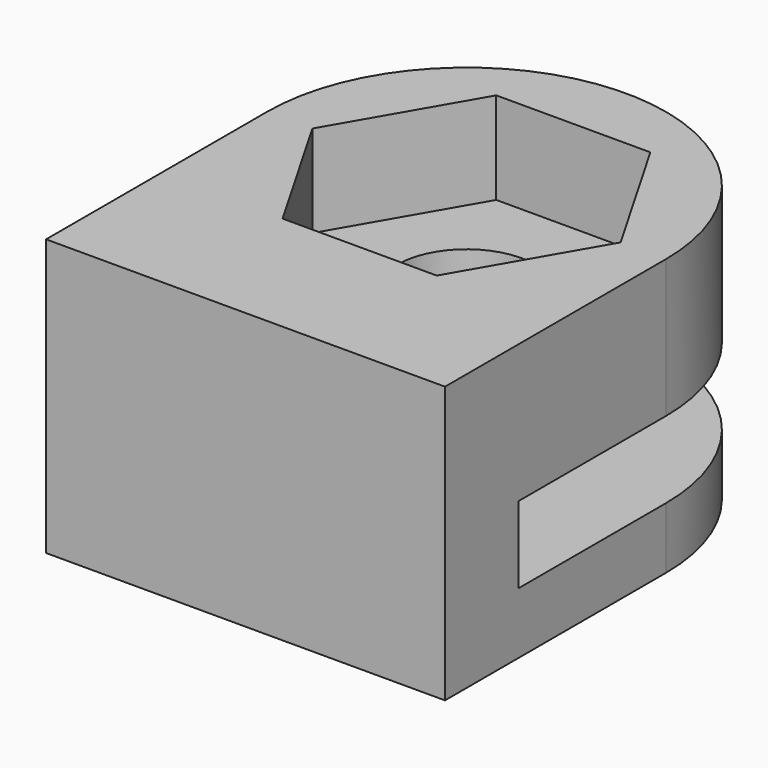
from build123d import *

# Parameters (mm, degrees)
F1_DEPTH = 9
F3_DEPTH = 3
F4_R     = 2.25
F5_DEPTH = 25.4
F6_W     = 16.774124
F6_H     = 2.5
F6_W_2   = 6
F7_DEPTH = 25


with BuildPart() as f1:
    # F0 (on Top) → F1 (new body)
    with BuildSketch(Plane.XY):
        with BuildLine():
            ThreePointArc((13, 0), (6.5, 6.5), (0, 0))
            Line((0, 0), (0, -9))
            Line((0, -9), (13, -9))
            Line((13, -9), (13, 0))
        make_face()
    extrude(amount=F1_DEPTH)

    # F2 (on face) → F3 (cut)
    with BuildSketch(Plane.XY.offset(9)):
        Polygon((11.522947, -0.00093), (9.012279, 4.349535), (3.989331, 4.350465), (1.477053, 0.00093), (3.987721, -4.349535), (9.010669, -4.350465), align=None)
    extrude(amount=-F3_DEPTH, mode=Mode.SUBTRACT)

    # F4 (on face) → F5 (cut)
    with BuildSketch(Plane.XY.offset(9)):
        with Locations((6.5, 0)):
            Circle(F4_R)
    extrude(amount=-F5_DEPTH, mode=Mode.SUBTRACT)

    # F6 (on face) → F7 (cut)
    with BuildSketch(Plane(origin=(0, 0, 0), x_dir=(0, -1, 0), z_dir=(-1, 0, 0))):
        with Locations((-8.387062, 3.25)):
            Rectangle(F6_W, F6_H)
        with Locations((3, 3.25)):
            Rectangle(F6_W_2, F6_H)
    extrude(amount=-F7_DEPTH, mode=Mode.SUBTRACT)


solid = f1.part
